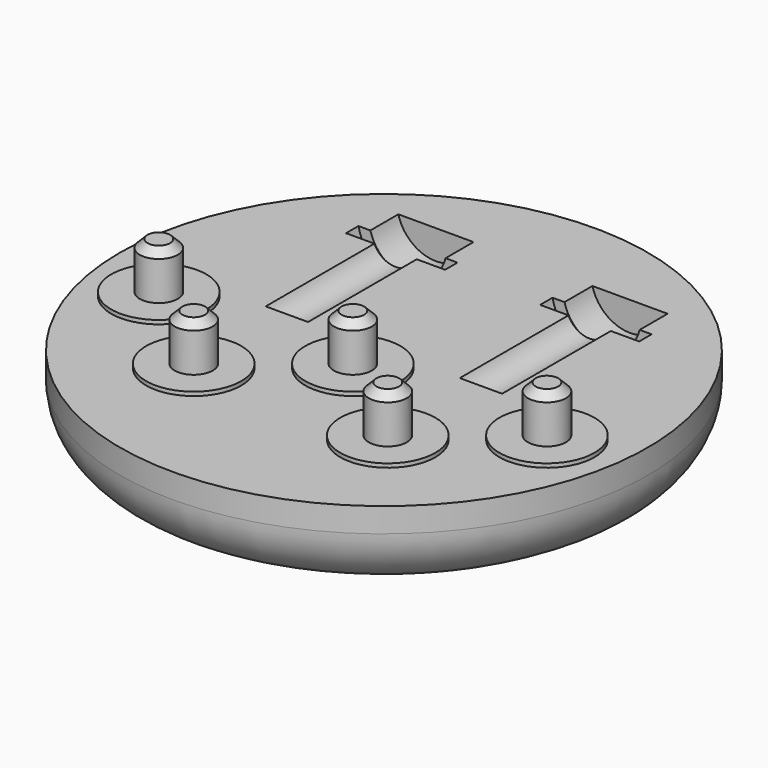
from build123d import *

# Parameters (mm, degrees)
F2_R     = 4.9
F3_DEPTH = 13
F2_R_2   = 12.25
F4_DEPTH = 1
F5_SIZE  = 2


with BuildPart() as f1:
    # F0 (on Front) → F1 (revolve)
    with BuildSketch(Plane.XZ):
        with BuildLine():
            Line((0, -19.3), (0, 0))
            Line((0, 0), (-68, 0))
            Line((-68, 0), (-68, -6.3))
            ThreePointArc((-68, -6.3), (-63.6066017178, -16.9066017178), (-53, -21.3))
            Line((-53, -21.3), (-42, -21.3))
            Line((-42, -21.3), (-42, -19.3))
            Line((-42, -19.3), (0, -19.3))
        make_face()
    revolve(axis=Axis((0, 0, -9.65), (0, 0, -1)))

    # F2 (on face) → F3 (join)
    with BuildSketch(Plane.XY):
        with Locations((-50, -10)):
            Circle(F2_R)
        with Locations((-25, -30)):
            Circle(F2_R)
        with Locations((0, -10)):
            Circle(F2_R)
        with Locations((25, -30)):
            Circle(F2_R)
        with Locations((50, -10)):
            Circle(F2_R)
    extrude(amount=F3_DEPTH)

    # F2 (on face) → F4 (join)
    with BuildSketch(Plane.XY):
        with Locations((-50, -10)):
            Circle(F2_R_2)
        with Locations((-50, -10)):
            Circle(F2_R, mode=Mode.SUBTRACT)
        with Locations((-25, -30)):
            Circle(F2_R_2)
        with Locations((-25, -30)):
            Circle(F2_R, mode=Mode.SUBTRACT)
        with Locations((0, -10)):
            Circle(F2_R_2)
        with Locations((0, -10)):
            Circle(F2_R, mode=Mode.SUBTRACT)
        with Locations((25, -30)):
            Circle(F2_R_2)
        with Locations((25, -30)):
            Circle(F2_R, mode=Mode.SUBTRACT)
        with Locations((50, -10)):
            Circle(F2_R_2)
        with Locations((50, -10)):
            Circle(F2_R, mode=Mode.SUBTRACT)
    extrude(amount=F4_DEPTH)

    # F5
    f5_edges = [f1.edges().sort_by_distance(p)[0] for p in [
        (-54.9, -10, 13),
        (-29.9, -30, 13),
        (-4.9, -10, 13),
        (20.1, -30, 13),
        (45.1, -10, 13),
    ]]
    chamfer(f5_edges, length=F5_SIZE)

    # F7 (on offset) → F8 (revolve, cut)
    with BuildSketch(Plane.XY.offset(2.5)):
        Polygon((-31, 0), (-25, 0), (-25, 35), (-25, 39), (-25, 48), (-35, 48), (-35, 39), (-38, 39), (-38, 35), (-31, 35), align=None)
    revolve(axis=Axis((-25, 17.5, 2.5), (0, 1, 0)), mode=Mode.SUBTRACT)

    # F7 (on offset) → F9 (revolve, cut)
    with BuildSketch(Plane.XY.offset(2.5)):
        Polygon((25, 35), (25, 0), (31, 0), (31, 35), (38, 35), (38, 39), (35, 39), (35, 48), (25, 48), (25, 39), align=None)
    revolve(axis=Axis((25, 17.5, 2.5), (0, 1, 0)), mode=Mode.SUBTRACT)


solid = f1.part
